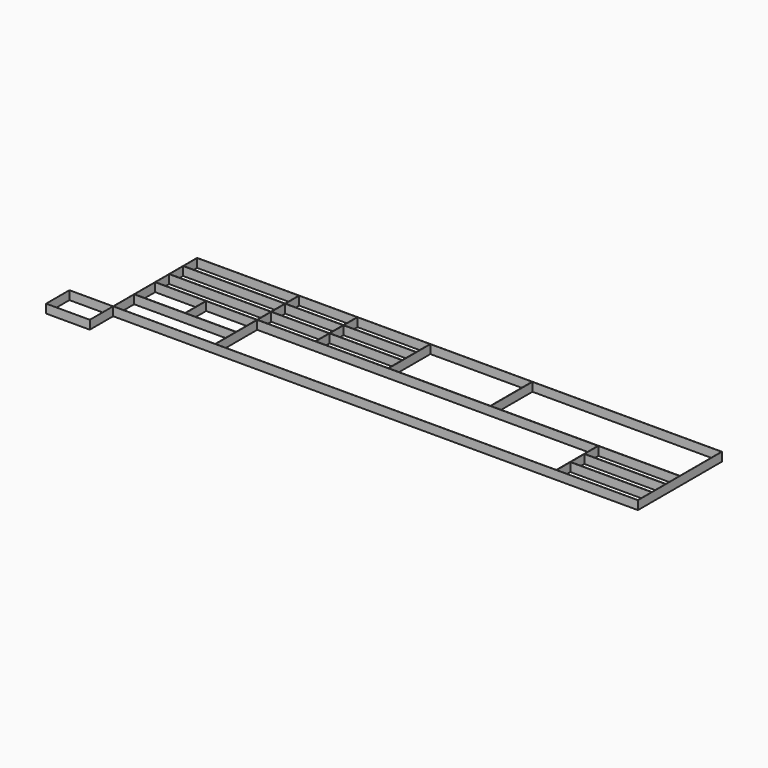
from build123d import *

# Parameters (mm, degrees)
F2_W     = 180
F2_H     = 36
F2_W_2   = 34.9
F2_H_2   = 8.9
F2_W_3   = 17.4
F2_W_4   = 27.9
F2_H_3   = 5.9
F2_W_5   = 116.9
F2_H_4   = 17.9
F2_W_6   = 19.9
F2_W_7   = 24.9
F2_W_8   = 64.9
F3_DEPTH = 3
F0_W     = 15
F0_H     = 10
F0_W_2   = 14.98
F0_H_2   = 9.98
F4_DEPTH = 3


with BuildPart() as f3:
    # F2 (on Top) → F3 (new body)
    with BuildSketch(Plane.XY):
        with Locations((105, 33)):
            Rectangle(F2_W, F2_H)
        with Locations((32.5, 19.5)):
            Rectangle(F2_W_2, F2_H_2, mode=Mode.SUBTRACT)
        with Locations((23.75, 28.5)):
            Rectangle(F2_W_3, F2_H_2, mode=Mode.SUBTRACT)
        with Locations((41.25, 28.5)):
            Rectangle(F2_W_3, F2_H_2, mode=Mode.SUBTRACT)
        with Locations((181, 18)):
            Rectangle(F2_W_4, F2_H_3, mode=Mode.SUBTRACT)
        with Locations((108.5, 24)):
            Rectangle(F2_W_5, F2_H_4, mode=Mode.SUBTRACT)
        with Locations((181, 24)):
            Rectangle(F2_W_4, F2_H_3, mode=Mode.SUBTRACT)
        with Locations((181, 30)):
            Rectangle(F2_W_4, F2_H_3, mode=Mode.SUBTRACT)
        with Locations((32.5, 36)):
            Rectangle(F2_W_2, F2_H_3, mode=Mode.SUBTRACT)
        with Locations((60, 36)):
            Rectangle(F2_W_6, F2_H_3, mode=Mode.SUBTRACT)
        with Locations((82.5, 36)):
            Rectangle(F2_W_7, F2_H_3, mode=Mode.SUBTRACT)
        with Locations((32.5, 42)):
            Rectangle(F2_W_2, F2_H_3, mode=Mode.SUBTRACT)
        with Locations((32.5, 48)):
            Rectangle(F2_W_2, F2_H_3, mode=Mode.SUBTRACT)
        with Locations((60, 42)):
            Rectangle(F2_W_6, F2_H_3, mode=Mode.SUBTRACT)
        with Locations((82.5, 42)):
            Rectangle(F2_W_7, F2_H_3, mode=Mode.SUBTRACT)
        with Locations((60, 48)):
            Rectangle(F2_W_6, F2_H_3, mode=Mode.SUBTRACT)
        with Locations((82.5, 48)):
            Rectangle(F2_W_7, F2_H_3, mode=Mode.SUBTRACT)
        with Locations((112.5, 42)):
            Rectangle(F2_W_2, F2_H_4, mode=Mode.SUBTRACT)
        with Locations((162.5, 42)):
            Rectangle(F2_W_8, F2_H_4, mode=Mode.SUBTRACT)
    extrude(amount=F3_DEPTH)


with BuildPart() as f4:
    # F0 (on Top) → F4 (new body)
    with BuildSketch(Plane.XY):
        with Locations((7.5, 10)):
            Rectangle(F0_W, F0_H)
        with Locations((7.5, 10)):
            Rectangle(F0_W_2, F0_H_2, mode=Mode.SUBTRACT)
    extrude(amount=F4_DEPTH)


solid = Compound([f3.part, f4.part])
